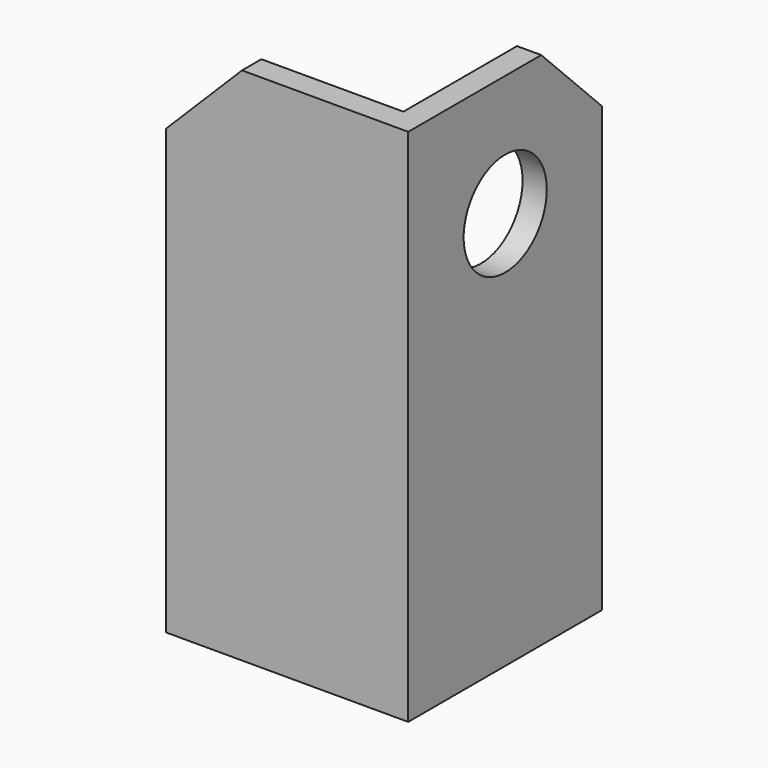
from build123d import *

# Parameters (mm, degrees)
F1_DEPTH = 150
F2_SIZE  = 22
F3_R     = 15
F4_DEPTH = 25


with BuildPart() as f1:
    # F0 (on Top) → F1 (new body)
    with BuildSketch(Plane.XY):
        Polygon((-70, 0), (0, 0), (0, 70), (-7, 70), (-7, 7), (-70, 7), align=None)
    extrude(amount=F1_DEPTH)

    # F2
    f2_edges = [f1.edges().sort_by_distance(p)[0] for p in [
        (-70, 3.5, 150),
        (-3.5, 70, 150),
    ]]
    chamfer(f2_edges, length=F2_SIZE)

    # F3 (on face) → F4 (cut)
    with BuildSketch(Plane.YZ):
        with Locations((35, 115)):
            Circle(F3_R)
    extrude(amount=-F4_DEPTH, mode=Mode.SUBTRACT)


solid = f1.part
